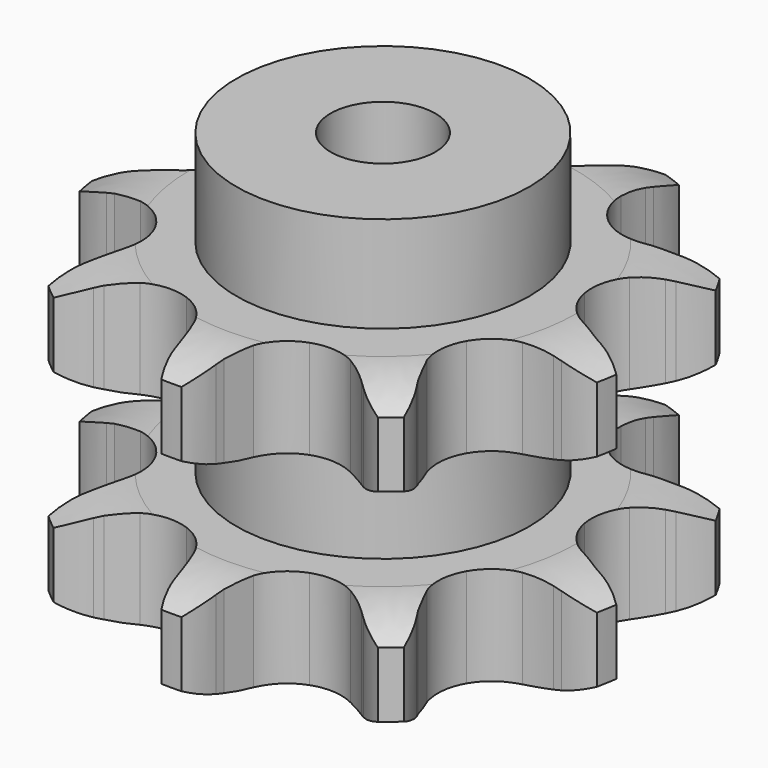
from build123d import *

# Parameters (mm, degrees)
PAD_DEPTH         = 72
SKETCH001_R       = 35
PAD001_DEPTH      = 95
SKETCH002_R       = 12.5
POCKET_DEPTH      = 0.001
POCKET_DEPTH_BACK = -95.001


with BuildPart() as part:
    # Sprocket → Pad (new body)
    with BuildSketch(Plane.XY):
        with BuildLine():
            ThreePointArc((-22.771285, 62.563593), (-18.088743, 59.042054), (-14.513047, 54.400735))
            Line((-14.513047, 54.400735), (-13.536659, 52.701983))
            ThreePointArc((-13.536659, 52.701983), (-11.691694, 49.842812), (-9.563116, 47.188023))
            ThreePointArc((-9.563116, 47.188023), (-5.240877, 44.018826), (0, 42.896874))
            ThreePointArc((0, 42.896874), (5.240877, 44.018826), (9.563116, 47.188023))
            ThreePointArc((9.563116, 47.188023), (11.691694, 49.842812), (13.536659, 52.701983))
            Line((13.536659, 52.701983), (14.513047, 54.400735))
            ThreePointArc((14.513047, 54.400735), (18.088743, 59.042054), (22.771285, 62.563593))
            ThreePointArc((22.771285, 62.563593), (24.09472, 56.856057), (23.85048, 51.002188))
            Line((23.85048, 51.002188), (23.506499, 49.073258))
            ThreePointArc((23.506499, 49.073258), (23.081985, 45.697086), (23.006105, 42.295175))
            ThreePointArc((23.006105, 42.295175), (24.280011, 37.089148), (27.573579, 32.860912))
            ThreePointArc((27.573579, 32.860912), (32.3095, 30.351606), (37.657649, 30.00107))
            Line((37.657649, 30.00107), (44.245864, 31.670864))
            ThreePointArc((44.245864, 31.670864), (45.160828, 32.021327), (46.085758, 32.344574))
            ThreePointArc((46.085758, 32.344574), (51.808282, 33.601618), (57.658919, 33.289392))
            ThreePointArc((57.658919, 33.289392), (55.003995, 28.066479), (51.054102, 23.73915))
            Line((51.054102, 23.73915), (49.550705, 22.48261))
            ThreePointArc((49.550705, 22.48261), (47.055347, 20.169185), (44.810513, 17.611945))
            ThreePointArc((44.810513, 17.611945), (42.440012, 12.805045), (42.245174, 7.448964))
            ThreePointArc((42.245174, 7.448964), (44.26015, 2.482533), (48.131749, -1.223717))
            Line((48.131749, -1.223717), (54.251937, -4.179404))
            ThreePointArc((54.251937, -4.179404), (55.178114, -4.499061), (56.09443, -4.845973))
            ThreePointArc((56.09443, -4.845973), (61.28615, -7.561389), (65.567303, -11.561285))
            ThreePointArc((65.567303, -11.561285), (60.17629, -13.855716), (54.368942, -14.6317))
            Line((54.368942, -14.6317), (52.409586, -14.627901))
            ThreePointArc((52.409586, -14.627901), (49.010989, -14.796102), (45.647585, -15.31211))
            ThreePointArc((45.647585, -15.31211), (40.74186, -17.470681), (37.149782, -21.448437))
            ThreePointArc((37.149782, -21.448437), (35.500983, -26.548145), (36.084469, -31.875913))
            Line((36.084469, -31.875913), (38.872926, -38.074082))
            ThreePointArc((38.872926, -38.074082), (39.376947, -38.914288), (39.855895, -39.769035))
            ThreePointArc((39.855895, -39.769035), (42.087547, -45.186338), (42.796018, -51.002308))
            ThreePointArc((42.796018, -51.002308), (37.19143, -49.294668), (32.24395, -46.156215))
            Line((32.24395, -46.156215), (30.745438, -44.893854))
            ThreePointArc((30.745438, -44.893854), (28.033845, -42.838128), (25.125644, -41.071459))
            ThreePointArc((25.125644, -41.071459), (19.980138, -39.571681), (14.671595, -40.309876))
            ThreePointArc((14.671595, -40.309876), (10.130512, -43.156651), (7.152865, -47.613015))
            Line((7.152865, -47.613015), (5.304841, -54.153474))
            ThreePointArc((5.304841, -54.153474), (5.150869, -55.121088), (4.968344, -56.083724))
            ThreePointArc((4.968344, -56.083724), (3.195714, -61.668097), (0, -66.578785))
            ThreePointArc((0, -66.578785), (-3.195714, -61.668097), (-4.968344, -56.083724))
            Line((-4.968344, -56.083724), (-5.304841, -54.153474))
            ThreePointArc((-5.304841, -54.153474), (-6.060647, -50.835718), (-7.152865, -47.613015))
            ThreePointArc((-7.152865, -47.613015), (-10.130512, -43.156651), (-14.671595, -40.309876))
            ThreePointArc((-14.671595, -40.309876), (-19.980138, -39.571681), (-25.125644, -41.071459))
            Line((-25.125644, -41.071459), (-30.745438, -44.893854))
            ThreePointArc((-30.745438, -44.893854), (-31.485358, -45.536118), (-32.24395, -46.156215))
            ThreePointArc((-32.24395, -46.156215), (-37.19143, -49.294668), (-42.796018, -51.002308))
            ThreePointArc((-42.796018, -51.002308), (-42.087547, -45.186338), (-39.855895, -39.769035))
            Line((-39.855895, -39.769035), (-38.872926, -38.074082))
            ThreePointArc((-38.872926, -38.074082), (-37.319294, -35.046711), (-36.084469, -31.875913))
            ThreePointArc((-36.084469, -31.875913), (-35.500983, -26.548145), (-37.149782, -21.448437))
            ThreePointArc((-37.149782, -21.448437), (-40.74186, -17.470681), (-45.647585, -15.31211))
            Line((-45.647585, -15.31211), (-52.409586, -14.627901))
            ThreePointArc((-52.409586, -14.627901), (-53.389236, -14.644292), (-54.368942, -14.6317))
            ThreePointArc((-54.368942, -14.6317), (-60.17629, -13.855716), (-65.567303, -11.561285))
            ThreePointArc((-65.567303, -11.561285), (-61.28615, -7.561389), (-56.09443, -4.845973))
            Line((-56.09443, -4.845973), (-54.251937, -4.179404))
            ThreePointArc((-54.251937, -4.179404), (-51.115829, -2.858958), (-48.131749, -1.223717))
            ThreePointArc((-48.131749, -1.223717), (-44.26015, 2.482533), (-42.245174, 7.448964))
            ThreePointArc((-42.245174, 7.448964), (-42.440012, 12.805045), (-44.810513, 17.611945))
            Line((-44.810513, 17.611945), (-49.550705, 22.48261))
            ThreePointArc((-49.550705, 22.48261), (-50.311697, 23.099761), (-51.054102, 23.73915))
            ThreePointArc((-51.054102, 23.73915), (-55.003995, 28.066479), (-57.658919, 33.289392))
            ThreePointArc((-57.658919, 33.289392), (-51.808282, 33.601618), (-46.085758, 32.344574))
            Line((-46.085758, 32.344574), (-44.245864, 31.670864))
            ThreePointArc((-44.245864, 31.670864), (-40.9947, 30.666533), (-37.657649, 30.00107))
            ThreePointArc((-37.657649, 30.00107), (-32.3095, 30.351606), (-27.573579, 32.860912))
            ThreePointArc((-27.573579, 32.860912), (-24.280011, 37.089148), (-23.006105, 42.295175))
            Line((-23.006105, 42.295175), (-23.506499, 49.073258))
            ThreePointArc((-23.506499, 49.073258), (-23.692756, 50.035179), (-23.85048, 51.002188))
            ThreePointArc((-23.85048, 51.002188), (-24.09472, 56.856057), (-22.771285, 62.563593))
        make_face()
    extrude(amount=PAD_DEPTH)

    # Sketch → Groove (revolve, cut)
    with BuildSketch(Plane.XZ):
        with BuildLine():
            ThreePointArc((46.229437, 0), (54.947235, 1.013516), (63.2, 4))
            Line((63.2, 4), (63.2, 19.6))
            ThreePointArc((63.2, 19.6), (54.947235, 22.586484), (46.229437, 23.6))
            Line((35, 23.6), (46.229437, 23.6))
            Line((35, 48.4), (35, 23.6))
            Line((46.229437, 48.4), (35, 48.4))
            ThreePointArc((46.229437, 48.4), (54.947235, 49.413516), (63.2, 52.4))
            Line((63.2, 52.4), (63.2, 68))
            ThreePointArc((63.2, 68), (54.947235, 70.986484), (46.229437, 72))
            Line((46.229437, 72), (73.2, 72))
            Line((73.2, 72), (73.2, 0))
            Line((46.229437, 0), (73.2, 0))
        make_face()
    revolve(axis=Axis((0, 0, 0), (0, 0, 1)), mode=Mode.SUBTRACT)

    # Sketch001 → Pad001 (join)
    with BuildSketch(Plane.XY):
        Circle(SKETCH001_R)
    extrude(amount=PAD001_DEPTH)

    # Sketch002 → Pocket (cut, two sides)
    with BuildSketch(Plane.XY) as pocket_sk:
        Circle(SKETCH002_R)
    extrude(amount=-POCKET_DEPTH, mode=Mode.SUBTRACT)
    extrude(pocket_sk.sketch, amount=-POCKET_DEPTH_BACK, mode=Mode.SUBTRACT)


solid = part.part
